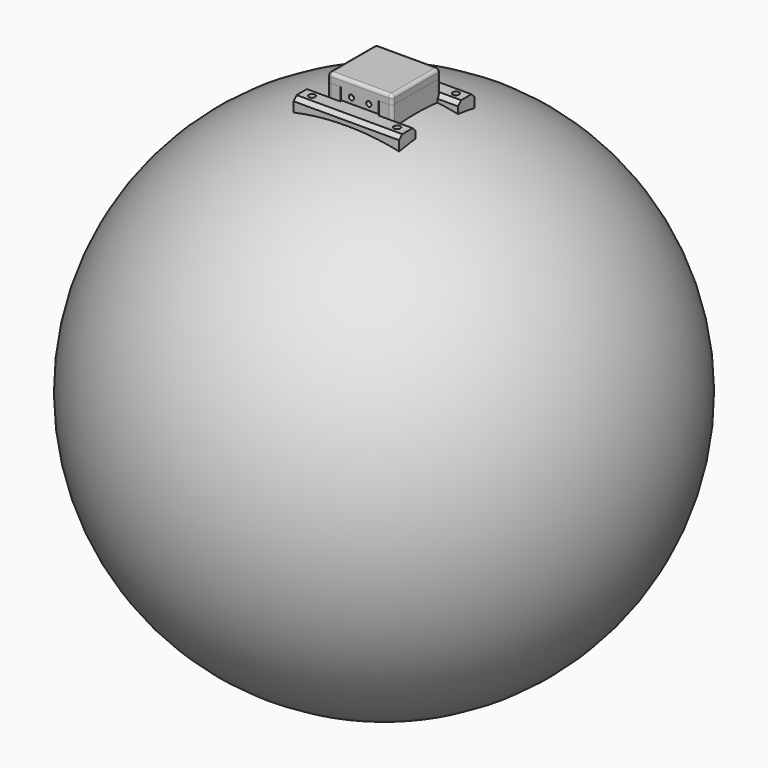
from build123d import *

# Parameters (mm, degrees)
F6_R      = 2.5
F8_SIZE   = 3
F10_DEPTH = 10
F11_W     = 50
F11_H     = 47
F11_W_2   = 43
F11_H_2   = 40
F12_DEPTH = 5
F13_W     = 50
F13_H     = 47
F14_DEPTH = 2
F15_R     = 2.5
F15_2_R   = 2.5
F16_W     = 29
F16_H     = 3.5
F17_DEPTH = 9
F18_R     = 2
F19_DEPTH = 3.5
F21_W     = 25
F21_H     = 15.3
F22_DEPTH = 1
F23_DEPTH = 1.5
F25_DEPTH = 6
F26_W     = 25
F26_H     = 15.3
F27_DEPTH = 2
F28_R     = 0.5
F29_DEPTH = 10.5


with BuildPart() as f4:
    # F3 (on Right) → F4 (revolve)
    with BuildSketch(Plane.YZ):
        with BuildLine():
            Line((0, 200), (0, -200))
            ThreePointArc((0, -200), (200, 0), (0, 200))
        make_face()
    revolve(axis=Axis((0, 0, -16.459852457), (0, 0, -1)))


with BuildPart() as f7:
    # F6 (on offset) → F7 (new body, up to the next surface of F4)
    with BuildSketch(Plane.XY.offset(203)):
        Polygon((41, 36.5), (25, 36.5), (-25, 36.5), (-41, 36.5), (-41, 20.5), (-25, 20.5), (-25, -20.5), (-41, -20.5), (-41, -36.5), (-25, -36.5), (25, -36.5), (41, -36.5), (41, -20.5), (25, -20.5), (25, 20.5), (41, 20.5), align=None)
        with Locations((-33, -28.5)):
            Circle(F6_R, mode=Mode.SUBTRACT)
        with Locations((33, -28.5)):
            Circle(F6_R, mode=Mode.SUBTRACT)
        with Locations((-33, 28.5)):
            Circle(F6_R, mode=Mode.SUBTRACT)
        with Locations((33, 28.5)):
            Circle(F6_R, mode=Mode.SUBTRACT)
    extrude(until=Until.NEXT, target=f4.part, dir=(0, 0, -1))

    # F8
    f8_edges = [f7.edges().sort_by_distance(p)[0] for p in [
        (0, 36.5, 203),
        (-33, 36.5, 203),
        (33, 36.5, 203),
        (0, -36.5, 203),
        (-33, -36.5, 203),
        (33, -36.5, 203),
        (-33, 20.5, 203),
        (33, 20.5, 203),
        (33, -20.5, 203),
        (-33, -20.5, 203),
    ]]
    chamfer(f8_edges, length=F8_SIZE)

    # F9 (on face) → F10 (join)
    with BuildSketch(Plane.XY.offset(203)):
        Polygon((25, -23.5), (25, 23.5), (-25, 23.5), (-25, -23.5), (-15, -23.5), (-15, -20), (-21.5, -20), (-21.5, 20), (21.5, 20), (21.5, -20), (15, -20), (15, -23.5), align=None)
    extrude(amount=F10_DEPTH)

    # F15#2
    f15_2_edges = [f7.edges().sort_by_distance(p)[0] for p in [
        (-25, -23.5, 208),
        (-25, 23.5, 208),
        (25, -23.5, 208),
        (25, 23.5, 208),
    ]]
    fillet(f15_2_edges, radius=F15_2_R)


with BuildPart() as f12:
    # F11 (on face) → F12 (new body)
    with BuildSketch(Plane.XY.offset(213)):
        Rectangle(F11_W, F11_H)
        Rectangle(F11_W_2, F11_H_2, mode=Mode.SUBTRACT)
    extrude(amount=F12_DEPTH)

    # F13 (on face) → F14 (join)
    with BuildSketch(Plane.XY.offset(218)):
        Rectangle(F13_W, F13_H)
    extrude(amount=F14_DEPTH)

    # F15
    f15_edges = [f12.edges().sort_by_distance(p)[0] for p in [
        (25, 0, 220),
        (0, 23.5, 220),
        (-25, 0, 220),
        (0, -23.5, 220),
        (-25, -23.5, 216.5),
        (-25, 23.5, 216.5),
        (25, -23.5, 216.5),
        (25, 23.5, 216.5),
    ]]
    fillet(f15_edges, radius=F15_R)

    # F16 (on face) → F17 (join)
    with BuildSketch(Plane(origin=(0, 0, 213), x_dir=(1, 0, 0), z_dir=(0, 0, -1))):
        with Locations((0, 21.75)):
            Rectangle(F16_W, F16_H)
    extrude(amount=F17_DEPTH)

    # F18 (on face) → F19 (cut, through all)
    with BuildSketch(Plane.XZ.offset(23.5)):
        with Locations((-6.5, 208.5)):
            Circle(F18_R)
        with Locations((7, 208.5)):
            Circle(F18_R)
    extrude(amount=-F19_DEPTH, mode=Mode.SUBTRACT)


with BuildPart() as f22:
    # F21 (on offset) → F22 (new body)
    with BuildSketch(Plane.XY.offset(-202)):
        Rectangle(F21_W, F21_H)
        Polygon((-12.5, 7.65), (12.5, 7.65), (12.5, -7.65), (-12.5, -7.65), (-12.5, -8.65), (13.5, -8.65), (13.5, 8.65), (-12.5, 8.65), align=None)
    extrude(amount=F22_DEPTH)

    # F21 (on offset) → F23 (join)
    with BuildSketch(Plane.XY.offset(-202)):
        Rectangle(F21_W, F21_H)
    extrude(amount=-F23_DEPTH)

    # F24 (on face) → F25 (join)
    with BuildSketch(Plane(origin=(0, 0, -203.5), x_dir=(1, 0, 0), z_dir=(0, 0, -1))):
        Polygon((12.5, 4.65), (12.5, 7.65), (9.5, 7.65), (-9.5, 7.65), (-12.5, 7.65), (-12.5, 4.65), (-12.5, 3), (-11, 3), (-11, 4.65), (-9.5, 4.65), (-9.5, 6.15), (9.5, 6.15), (9.5, 4.65), (11, 4.65), (11, -4.65), (9.5, -4.65), (9.5, -6.15), (-9.5, -6.15), (-9.5, -4.65), (-11, -4.65), (-11, -3), (-12.5, -3), (-12.5, -4.65), (-12.5, -7.65), (-9.5, -7.65), (9.5, -7.65), (12.5, -7.65), (12.5, -4.65), align=None)
    extrude(amount=F25_DEPTH)


with BuildPart() as f27:
    # F26 (on face) → F27 (new body)
    with BuildSketch(Plane(origin=(0, 0, -209.5), x_dir=(1, 0, 0), z_dir=(0, 0, -1))):
        Rectangle(F26_W, F26_H)
    extrude(amount=F27_DEPTH)


with BuildPart() as f29_tool:
    # F28 (on face) → F29 (new body, through all)
    with BuildSketch(Plane(origin=(0, 0, -211.5), x_dir=(1, 0, 0), z_dir=(0, 0, -1))):
        with Locations((-11, 6.15)):
            Circle(F28_R)
        with Locations((-11, -6.15)):
            Circle(F28_R)
        with Locations((11, 6.15)):
            Circle(F28_R)
        with Locations((11, -6.15)):
            Circle(F28_R)
    extrude(amount=-F29_DEPTH)


with BuildPart() as f22_1:
    add(f22.part)

    # F29: cut by f29_tool
    add(f29_tool.part, mode=Mode.SUBTRACT)


with BuildPart() as f27_1:
    add(f27.part)

    # F29: cut by f29_tool
    add(f29_tool.part, mode=Mode.SUBTRACT)


solid = Compound([f4.part, f7.part, f12.part, f22_1.part, f27_1.part])
